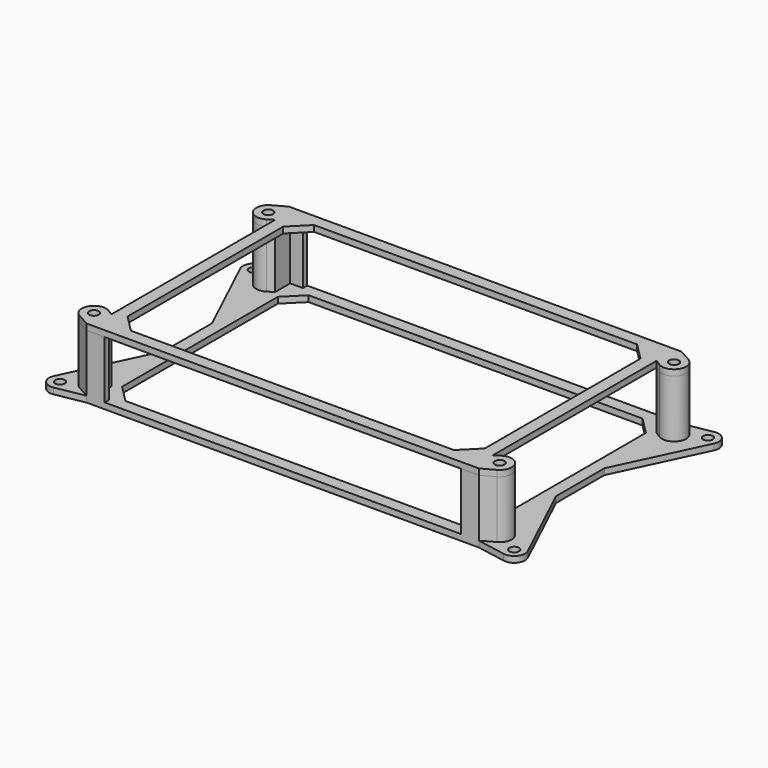
from build123d import *

# Parameters (mm, degrees)
SKETCH005_R                = 1.6
PAD_DEPTH                  = 2
SKETCH_R                   = 2
PAD001_DEPTH               = 19
SKETCH005_MIRRORED_2_R     = 1.6
PAD_MIRRORED_2_DEPTH       = 2
SKETCH_MIRRORED_2_R        = 2
PAD001_MIRRORED_2_DEPTH    = 19
SKETCH006_R                = 1.6
PAD002_DEPTH               = 2
SKETCH006_MIRRORED002_2_R  = 1.6
PAD002_MIRRORED002_2_DEPTH = 2


with BuildPart() as body_base:
    # Sketch005 → Pad (new body)
    with BuildSketch(Plane.XY):
        with BuildLine():
            Line((64.8, 41.8), (0, 41.8))
            Line((0, 41.8), (0, 37.8))
            Line((0, 37.8), (55.143146, 37.8))
            Line((55.143146, 37.8), (60.8, 32.143146))
            Line((60.8, 32.143146), (60.8, 0))
            Line((60.8, 0), (64.8, 0))
            Line((64.8, 0), (64.8, 10))
            Line((64.8, 10), (78.254653, 38.461418))
            ThreePointArc((78.254653, 38.461418), (77.855514, 42.192268), (74.354407, 43.541639))
            Line((74.354407, 43.541639), (64.8, 41.8))
        make_face()
        with Locations((75, 40)):
            Circle(SKETCH005_R, mode=Mode.SUBTRACT)
    pad = extrude(amount=-PAD_DEPTH)

    # Sketch (on Face12 of Pad) → Pad001 (join)
    with BuildSketch(Plane.XY):
        with BuildLine():
            Line((58.8, 41.8), (64.8, 41.8))
            Line((68.943824, 39.495933), (64.8, 41.8))
            ThreePointArc((64.857965, 32.621881), (70.438455, 33.956222), (68.943824, 39.495933))
            Line((63, 33.8), (64.857965, 32.621881))
            Line((63, 33.8), (63, 40))
            Line((63, 40), (58.8, 40))
            Line((58.8, 40), (58.8, 41.8))
        make_face()
        with Locations((67, 36)):
            Circle(SKETCH_R, mode=Mode.SUBTRACT)
    pad001 = extrude(amount=PAD001_DEPTH)

    # Sketch005 Mirrored 2 → Pad Mirrored 2 (add)
    with BuildSketch(Plane(origin=(0, 0, 0), x_dir=(-1, 0, 0), z_dir=(0, 0, -1))):
        with BuildLine():
            Line((64.8, 41.8), (0, 41.8))
            Line((0, 41.8), (0, 37.8))
            Line((0, 37.8), (55.143146, 37.8))
            Line((55.143146, 37.8), (60.8, 32.143146))
            Line((60.8, 32.143146), (60.8, 0))
            Line((60.8, 0), (64.8, 0))
            Line((64.8, 0), (64.8, 10))
            Line((64.8, 10), (78.254653, 38.461418))
            ThreePointArc((78.254653, 38.461418), (77.855514, 42.192268), (74.354407, 43.541639))
            Line((74.354407, 43.541639), (64.8, 41.8))
        make_face()
        with Locations((75, 40)):
            Circle(SKETCH005_MIRRORED_2_R, mode=Mode.SUBTRACT)
    pad_mirrored_2 = extrude(amount=PAD_MIRRORED_2_DEPTH)

    # Sketch Mirrored 2 → Pad001 Mirrored 2 (add)
    with BuildSketch(Plane(origin=(0, 0, 0), x_dir=(-1, 0, 0), z_dir=(0, 0, -1))):
        with BuildLine():
            Line((58.8, 41.8), (64.8, 41.8))
            Line((68.943824, 39.495933), (64.8, 41.8))
            ThreePointArc((64.857965, 32.621881), (70.438455, 33.956222), (68.943824, 39.495933))
            Line((63, 33.8), (64.857965, 32.621881))
            Line((63, 33.8), (63, 40))
            Line((63, 40), (58.8, 40))
            Line((58.8, 40), (58.8, 41.8))
        make_face()
        with Locations((67, 36)):
            Circle(SKETCH_MIRRORED_2_R, mode=Mode.SUBTRACT)
    pad001_mirrored_2 = extrude(amount=-PAD001_MIRRORED_2_DEPTH)

    # Mirrored001: Pad, Pad001, Pad Mirrored 2, Pad001 Mirrored 2 across Sketch005 H_Axis
    add(pad.mirror(Plane.ZX))
    add(pad001.mirror(Plane.ZX))
    add(pad_mirrored_2.mirror(Plane.ZX))
    add(pad001_mirrored_2.mirror(Plane.ZX))


with BuildPart() as body_lid:
    # Sketch006 → Pad002 (new body)
    with BuildSketch(Plane.XY):
        with BuildLine():
            Line((63, 41.8), (0, 41.8))
            Line((0, 41.8), (0, 37.8))
            Line((0, 37.8), (53.343146, 37.8))
            Line((53.343146, 37.8), (59, 32.143146))
            Line((59, 32.143146), (59, 0))
            Line((63, 0), (59, 0))
            Line((63, 33.8), (63, 0))
            Line((63, 33.8), (64.857965, 32.621881))
            ThreePointArc((64.857965, 32.621881), (70.438455, 33.956222), (68.943824, 39.495933))
            Line((68.943824, 39.495933), (64.8, 41.8))
            Line((63, 41.8), (64.8, 41.8))
        make_face()
        with Locations((67, 36)):
            Circle(SKETCH006_R, mode=Mode.SUBTRACT)
    pad002 = extrude(amount=PAD002_DEPTH)

    # Sketch006 Mirrored002 2 → Pad002 Mirrored002 2 (add)
    with BuildSketch(Plane(origin=(0, 0, 0), x_dir=(-1, 0, 0), z_dir=(0, 0, -1))):
        with BuildLine():
            Line((63, 41.8), (0, 41.8))
            Line((0, 41.8), (0, 37.8))
            Line((0, 37.8), (53.343146, 37.8))
            Line((53.343146, 37.8), (59, 32.143146))
            Line((59, 32.143146), (59, 0))
            Line((63, 0), (59, 0))
            Line((63, 33.8), (63, 0))
            Line((63, 33.8), (64.857965, 32.621881))
            ThreePointArc((64.857965, 32.621881), (70.438455, 33.956222), (68.943824, 39.495933))
            Line((68.943824, 39.495933), (64.8, 41.8))
            Line((63, 41.8), (64.8, 41.8))
        make_face()
        with Locations((67, 36)):
            Circle(SKETCH006_MIRRORED002_2_R, mode=Mode.SUBTRACT)
    pad002_mirrored002_2 = extrude(amount=-PAD002_MIRRORED002_2_DEPTH)

    # Mirrored003: Pad002, Pad002 Mirrored002 2 across Sketch006 H_Axis
    add(pad002.mirror(Plane.ZX))
    add(pad002_mirrored002_2.mirror(Plane.ZX))


with BuildPart() as body_lid_1:
    # Body placement: moved
    add(body_lid.part.moved(Location((0, 0, 19))))


solid = Compound([body_base.part, body_lid_1.part])
